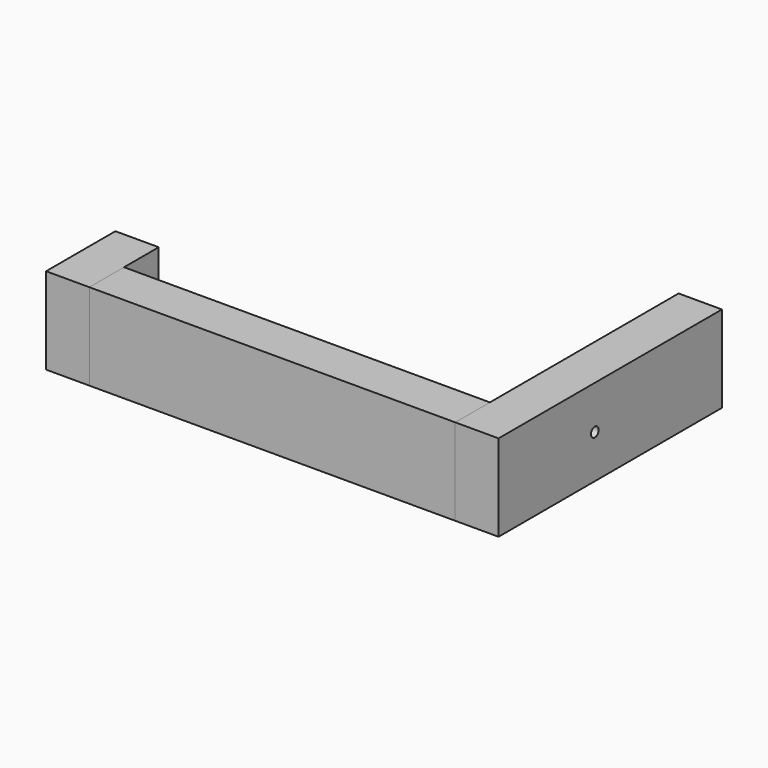
from build123d import *

# Parameters (mm, degrees)
F1_DEPTH = 90
F2_DEPTH = 90
F3_DEPTH = 90
F4_R     = 5
F5_DEPTH = 45


with BuildPart() as f1:
    # F0 (on Top) → F1 (new body)
    with BuildSketch(Plane.XY):
        Polygon((235, -235), (235, 55), (190, 55), (190, -190), (190, -235), align=None)
    extrude(amount=F1_DEPTH)

    # F4 (on face) → F5 (cut, through all)
    with BuildSketch(Plane.YZ.offset(235)):
        with Locations((-110, 45)):
            Circle(F4_R)
    extrude(amount=-F5_DEPTH, mode=Mode.SUBTRACT)


with BuildPart() as f2:
    # F0 (on Top) → F2 (new body)
    with BuildSketch(Plane.XY):
        Polygon((190, -190), (-145, -190), (-190, -190), (-190, -235), (190, -235), align=None)
    extrude(amount=F2_DEPTH)


with BuildPart() as f3:
    # F0 (on Top) → F3 (new body)
    with BuildSketch(Plane.XY):
        Polygon((-190, -190), (-190, -145), (-235, -145), (-235, -235), (-190, -235), align=None)
    extrude(amount=F3_DEPTH)


solid = Compound([f1.part, f2.part, f3.part])
